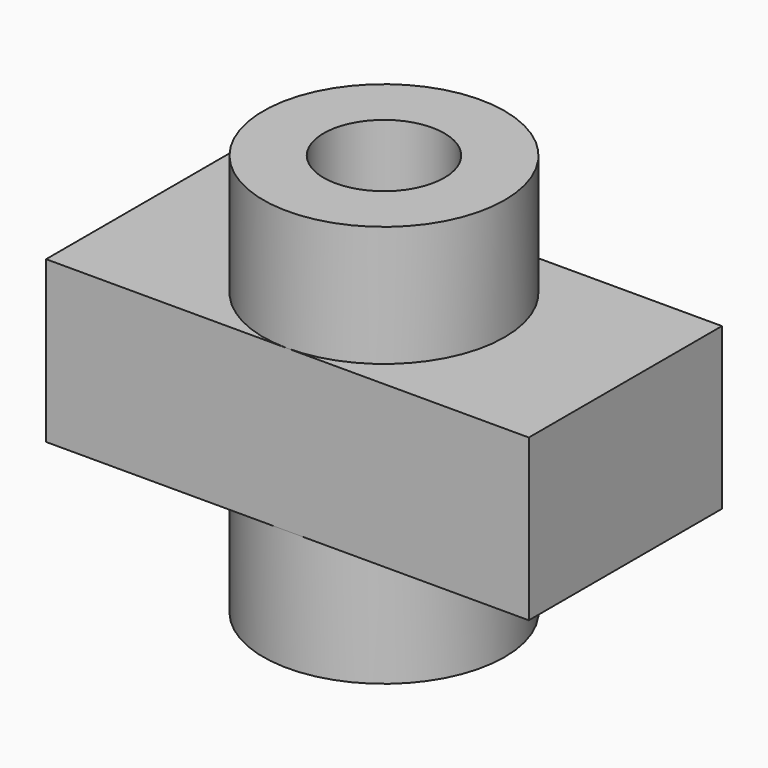
from build123d import *

# Parameters (mm, degrees)
F0_W          = 76.2
F0_H          = 38.1
F1_DEPTH      = 25.4
F2_R          = 19.05
F3_DEPTH      = 19.05
F3_DEPTH_BACK = 44.45
F4_R          = 9.525
F5_DEPTH      = 63.501


with BuildPart() as f1:
    # F0 (on Top) → F1 (new body)
    with BuildSketch(Plane.XY):
        with Locations((38.1, 19.05)):
            Rectangle(F0_W, F0_H)
    extrude(amount=F1_DEPTH)

    # F2 (on face) → F3 (join, two sides)
    with BuildSketch(Plane.XY.offset(25.4)) as f3_sk:
        with Locations((38.1, 19.05)):
            Circle(F2_R)
    extrude(amount=F3_DEPTH)
    extrude(f3_sk.sketch, amount=-F3_DEPTH_BACK)

    # F4 (on face) → F5 (cut, through all)
    with BuildSketch(Plane.XY.offset(44.45)):
        with Locations((38.1, 19.05)):
            Circle(F4_R)
    extrude(amount=-F5_DEPTH, mode=Mode.SUBTRACT)


solid = f1.part
